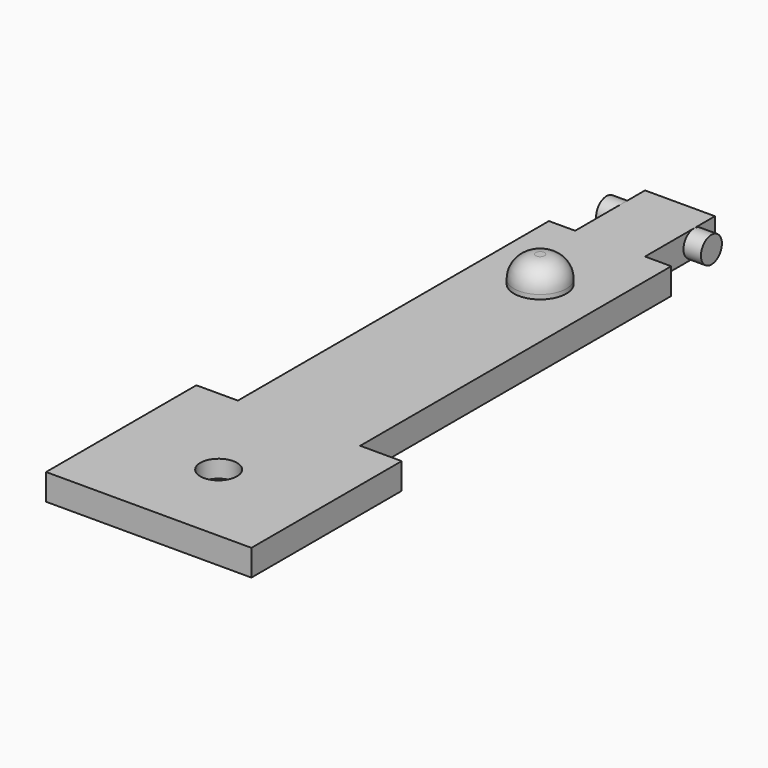
from build123d import *

# Parameters (mm, degrees)
PAD_DEPTH    = 3
SKETCH001_R  = 1.5
PAD001_DEPTH = 6
SKETCH002_R  = 2.1
POCKET_DEPTH = 2
SKETCH003_R  = 3
PAD002_DEPTH = 3
FILLET_R     = 2.5


with BuildPart() as part:
    # Sketch → Pad (new body)
    with BuildSketch(Plane.XY):
        Polygon((-11.75, -33), (11.75, -33), (11.75, -11.5), (7, -11.5), (7, 33), (4, 33), (4, 43), (-4, 43), (-4, 33), (-7, 33), (-7, -11.5), (-11.75, -11.5), align=None)
    extrude(amount=PAD_DEPTH)

    # Sketch001 → Pad001 (join, symmetric)
    with BuildSketch(Plane.YZ):
        with Locations((40, 1.5)):
            Circle(SKETCH001_R)
    extrude(amount=PAD001_DEPTH, both=True)

    # Sketch002 (on Face5 of Pad001) → Pocket (cut)
    with BuildSketch(Plane.XY.offset(3)):
        with Locations((0, -23)):
            Circle(SKETCH002_R)
    extrude(amount=-POCKET_DEPTH, mode=Mode.SUBTRACT)

    # Sketch003 (on Face5 of Pocket) → Pad002 (join)
    with BuildSketch(Plane.XY.offset(3)):
        with Locations((0, 23)):
            Circle(SKETCH003_R)
    extrude(amount=PAD002_DEPTH)

    # Fillet
    fillet_edges = [part.edges().sort_by_distance(p)[0] for p in [
        (-3, 23, 6),
    ]]
    fillet(fillet_edges, radius=FILLET_R)


solid = part.part
